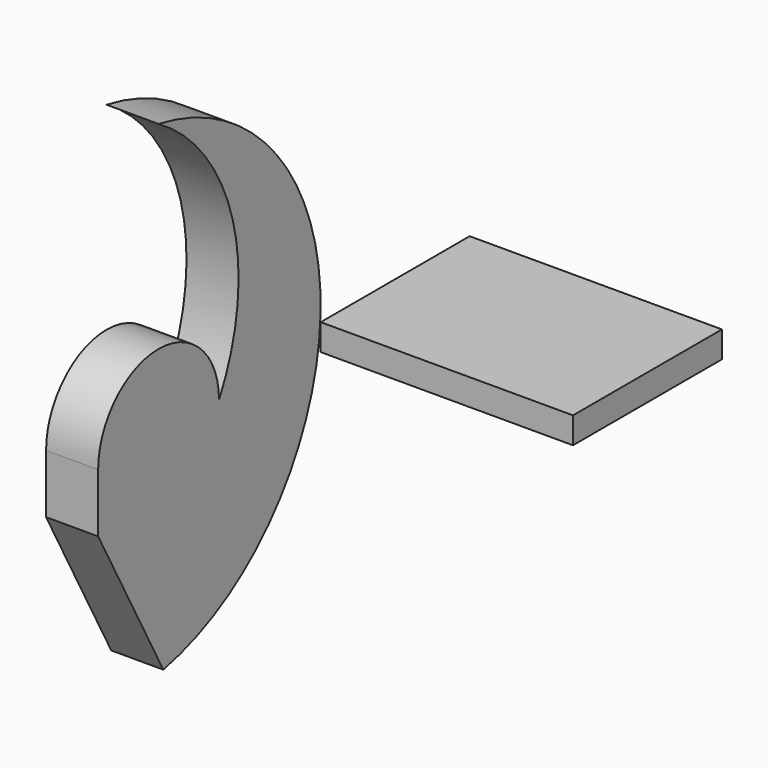
from build123d import *

# Parameters (mm, degrees)
F0_W     = 30.769583
F0_H     = 22.707484
F1_DEPTH = 3.217308
F3_DEPTH = 6.35


with BuildPart() as f1:
    # F0 (on Top) → F1 (new body)
    with BuildSketch(Plane.XY):
        with Locations((23.148077, -17.072145)):
            Rectangle(F0_W, F0_H)
    extrude(amount=F1_DEPTH)


with BuildPart() as f3:
    # F2 (on Right) → F3 (new body)
    with BuildSketch(Plane.YZ):
        with BuildLine():
            Line((-60.59175, -7.168174), (-50.652731, -25.524221))
            ThreePointArc((-50.652731, -25.524221), (-26.673885, 4.222946), (-51.378932, 33.369809))
            ThreePointArc((-51.378932, 33.369809), (-40.085936, 18.530954), (-42.166114, 0))
            ThreePointArc((-42.166114, 0), (-51.378932, 9.212818), (-60.59175, 0))
            Line((-60.59175, 0), (-60.59175, -7.168174))
        make_face()
    extrude(amount=F3_DEPTH)


solid = Compound([f1.part, f3.part])
